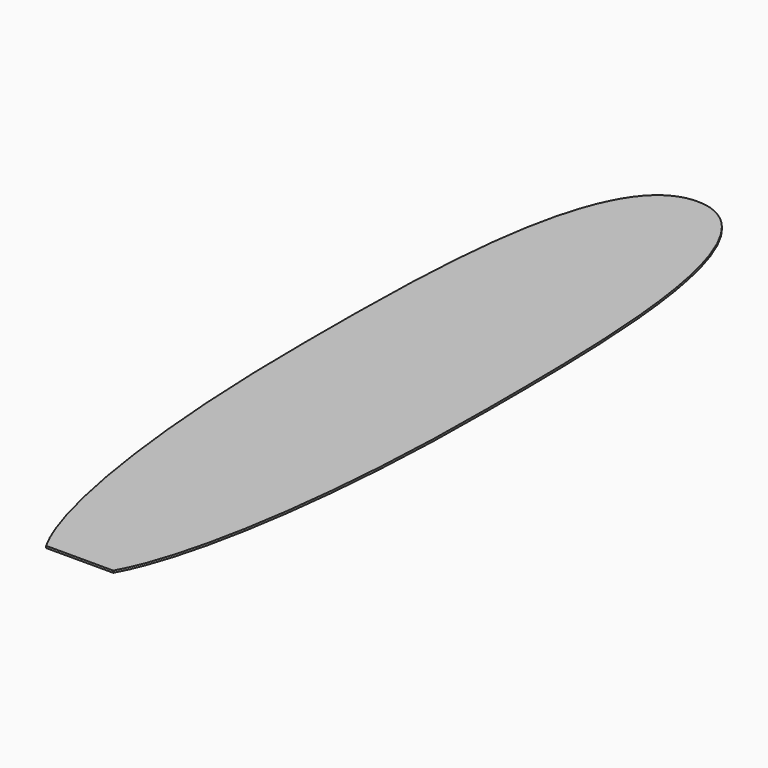
from build123d import *

# Parameters (mm, degrees)
F2_DEPTH = 6


with BuildPart() as f2:
    # F1 (on Top) → F2 (new body)
    with BuildSketch(Plane.XY):
        with BuildLine():
            Line((-100, 0), (0, 0))
            Line((0, 0), (100, 0))
            add(Edge.make_bspline(
                [(270, 1180), (271.095663, 619.914591), (197.083816, 170.90939), (100, 0)],
                knots=[0, 0, 0, 0, 1192.182872, 1192.182872, 1192.182872, 1192.182872], degree=3))
            add(Edge.make_bspline(
                [(269.786568, 1321.634432), (270.04327, 1271.912263), (270, 1224.295649), (270, 1180)],
                knots=[1028.984842, 1028.984842, 1028.984842, 1028.984842, 1152.085066, 1152.085066, 1152.085066, 1152.085066], degree=3))
            add(Edge.make_bspline(
                [(269.786566, 1321.63479), (269.786567, 1321.634671), (269.786568, 1321.634551), (269.786568, 1321.634432)],
                knots=[1028.984547, 1028.984547, 1028.984547, 1028.984547, 1028.984842, 1028.984842, 1028.984842, 1028.984842], degree=3))
            add(Edge.make_bspline(
                [(268.016351, 1464.825649), (269.049785, 1415.926246), (269.547864, 1367.870216), (269.786566, 1321.63479)],
                knots=[914.51669, 914.51669, 914.51669, 914.51669, 1028.984547, 1028.984547, 1028.984547, 1028.984547], degree=3))
            add(Edge.make_bspline(
                [(263.126685, 1611.136315), (265.454943, 1562.170903), (266.99639, 1513.087513), (268.016351, 1464.825649)],
                knots=[801.541241, 801.541241, 801.541241, 801.541241, 914.51669, 914.51669, 914.51669, 914.51669], degree=3))
            add(Edge.make_bspline(
                [(252.991035, 1762.692965), (257.423034, 1713.009801), (260.70165, 1662.137052), (263.126685, 1611.136315)],
                knots=[683.86979, 683.86979, 683.86979, 683.86979, 801.541241, 801.541241, 801.541241, 801.541241], degree=3))
            add(Edge.make_bspline(
                [(233.317277, 1923.787723), (241.605907, 1872.580953), (248.023075, 1818.384306), (252.991035, 1762.692965)],
                knots=[551.968347, 551.968347, 551.968347, 551.968347, 683.86979, 683.86979, 683.86979, 683.86979], degree=3))
            add(Edge.make_bspline(
                [(189.06399, 2109.46201), (207.827413, 2055.285576), (222.242791, 1992.205382), (233.317277, 1923.787723)],
                knots=[375.734072, 375.734072, 375.734072, 375.734072, 551.968347, 551.968347, 551.968347, 551.968347], degree=3))
            add(Edge.make_bspline(
                [(0, 2300), (89.292219, 2300), (149.060096, 2224.966966), (189.06399, 2109.46201)],
                knots=[0, 0, 0, 0, 375.734072, 375.734072, 375.734072, 375.734072], degree=3))
            add(Edge.make_bspline(
                [(0, 2300), (-273.790002, 2300), (-270, 1594.559409), (-270, 1180)],
                knots=[0, 0, 0, 0, 1152.085066, 1152.085066, 1152.085066, 1152.085066], degree=3))
            add(Edge.make_bspline(
                [(-270, 1180), (-271.095663, 619.914591), (-197.083816, 170.90939), (-100, 0)],
                knots=[0, 0, 0, 0, 1192.182872, 1192.182872, 1192.182872, 1192.182872], degree=3))
        make_face()
    extrude(amount=F2_DEPTH)


solid = f2.part
